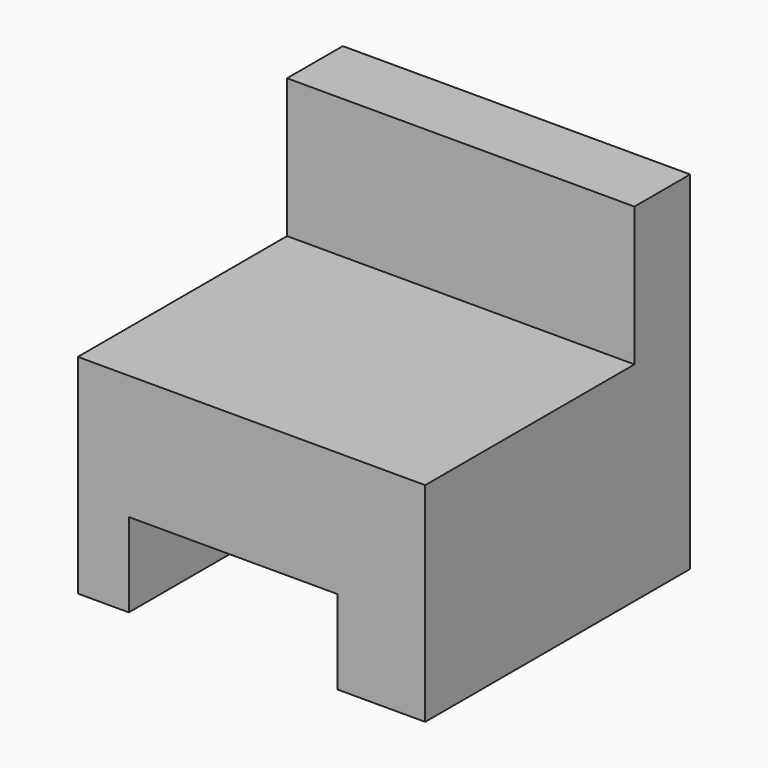
from build123d import *

# Parameters (mm, degrees)
F0_W     = 100
F0_H     = 95.3330463706
F1_DEPTH = 100
F2_W     = 100
F2_H     = 75.2818412601
F3_DEPTH = 40
F4_W     = 60
F4_H     = 15.817919746
F4_H_2   = 24.182080254
F5_DEPTH = 95.3340463706


with BuildPart() as f1:
    # F0 (on Top) → F1 (new body)
    with BuildSketch(Plane.XY):
        Rectangle(F0_W, F0_H)
    extrude(amount=F1_DEPTH)

    # F2 (on face) → F3 (cut)
    with BuildSketch(Plane.XY.offset(100)):
        with Locations((0, -10.0256025552)):
            Rectangle(F2_W, F2_H)
    extrude(amount=-F3_DEPTH, mode=Mode.SUBTRACT)

    # F4 (on face) → F5 (cut, through all)
    with BuildSketch(Plane.XZ.offset(47.6665231853)):
        with Locations((-5.323157385, -7.908959873)):
            Rectangle(F4_W, F4_H)
        with Locations((-5.323157385, 12.091040127)):
            Rectangle(F4_W, F4_H_2)
    extrude(amount=-F5_DEPTH, mode=Mode.SUBTRACT)


solid = f1.part
